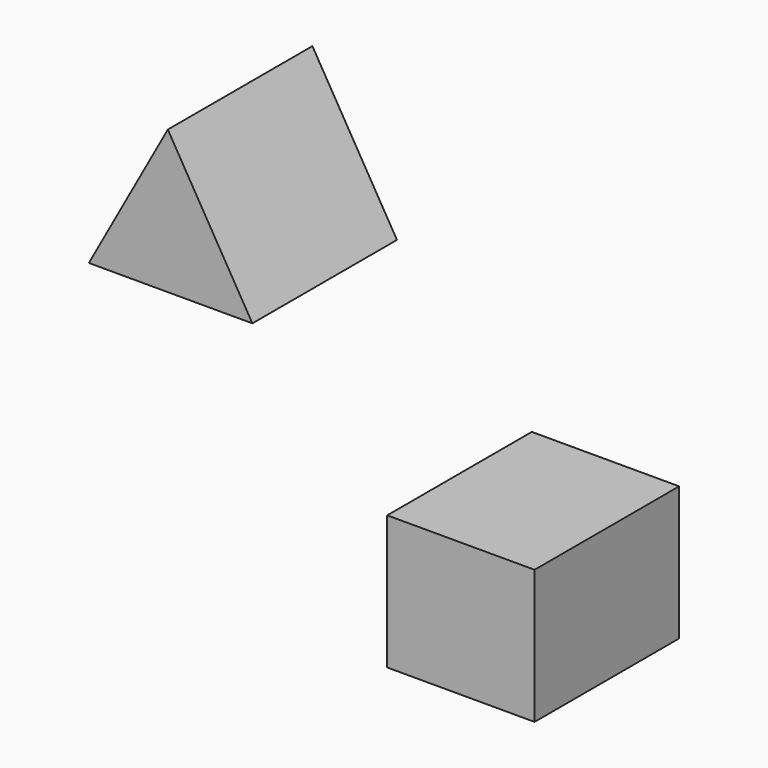
from build123d import *

# Parameters (mm, degrees)
F1_DEPTH = 50


with BuildPart() as f1:
    # F0 (on Front) → F1 (new body)
    with BuildSketch(Plane.XZ):
        Polygon((-36.59559, 52.113969), (-58.447516, 12.507354), (-13.202207, 12.507354), align=None)
        Polygon((24.105245, -59.169795), (64.869953, -59.169795), (64.869953, -22.110971), (58.847902, -22.110971), (24.105245, -22.110971), align=None)
    extrude(amount=F1_DEPTH)


solid = f1.part
